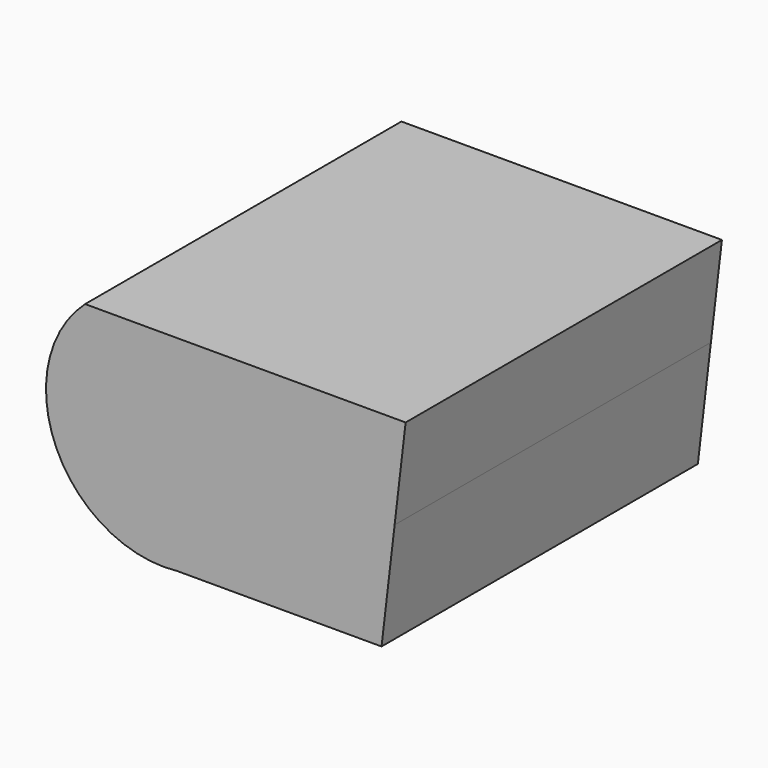
from build123d import *

# Parameters (mm, degrees)
F1_DEPTH = 25.4


with BuildPart() as f1:
    # F0 (on Front) → F1 (new body)
    with BuildSketch(Plane.XZ):
        with BuildLine():
            Line((-29.147431, 26.136464), (-39.287967, 26.136464))
            ThreePointArc((-39.287967, 26.136464), (-41.136623, 17.396081), (-33.380877, 12.962096))
            Line((-33.380877, 12.962096), (-20.243494, 12.962096))
            Line((-20.243494, 12.962096), (-19.404731, 20.111647))
            Line((-19.404731, 20.111647), (-18.697919, 26.136464))
            Line((-18.697919, 26.136464), (-28.992943, 26.136464))
            Line((-28.992943, 26.136464), (-29.147431, 26.136464))
        make_face()
    extrude(amount=F1_DEPTH)


solid = f1.part
